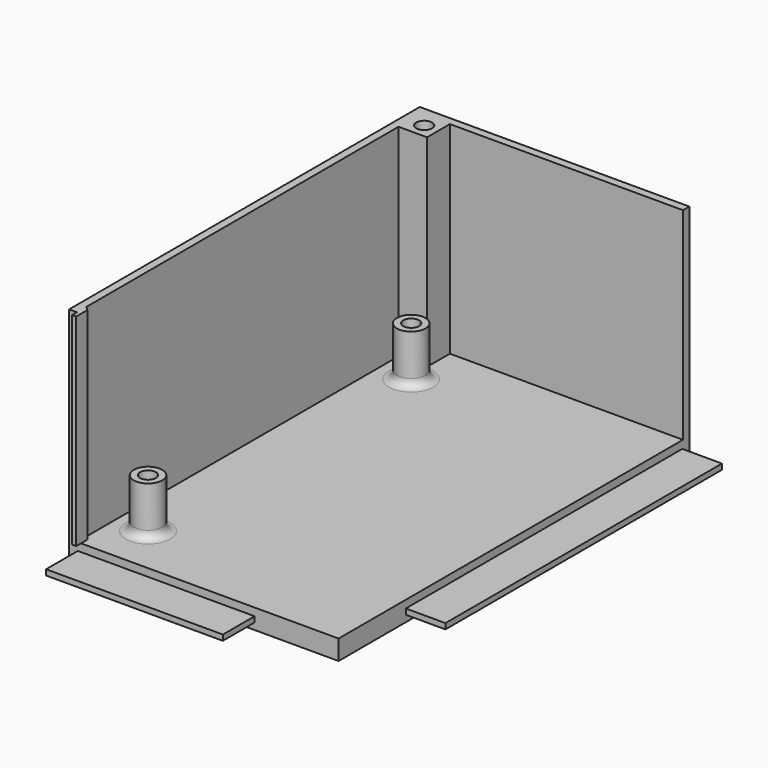
from build123d import *

# Parameters (mm, degrees)
SKETCH_1_W      = 63
SKETCH_1_H      = 93
PAD_DEPTH       = 5
SKETCH_W        = 63
SKETCH_H        = 7.4
PAD001_DEPTH    = 5
PAD002_DEPTH    = 5
PAD003_DEPTH    = 51
SKETCH005_W     = 87.2
SKETCH005_H     = 1.4
PAD005_DEPTH    = 10
SKETCH006_R     = 3.6
PAD006_DEPTH    = 12.4
SKETCH007_R     = 2
POCKET001_DEPTH = 6.7
SKETCH008_W     = 44.6
SKETCH008_H     = 1.4
PAD007_DEPTH    = 10
PAD008_DEPTH    = 51
SKETCH010_W     = 7.2
SKETCH010_H     = 7.2
PAD009_DEPTH    = 51
SKETCH011_R     = 2
POCKET_DEPTH    = 6.7
FILLET_R        = 2


with BuildPart() as part:
    # Sketch_1 → Pad (new body)
    with BuildSketch(Plane.XY):
        with Locations((-31.5, 46.5)):
            Rectangle(SKETCH_1_W, SKETCH_1_H)
    extrude(amount=PAD_DEPTH)

    # Sketch → Pad001 (join)
    with BuildSketch(Plane.XY):
        with Locations((-31.5, -3.7)):
            Rectangle(SKETCH_W, SKETCH_H)
    extrude(amount=PAD001_DEPTH)

    # Sketch001 → Pad002 (join)
    with BuildSketch(Plane.XY):
        Polygon((-68, 103.2), (-68, -7.4), (-63, -7.4), (-63, 93), (0, 93), (0, 103.2), align=None)
    extrude(amount=PAD002_DEPTH)

    # Sketch002 (on Face13 of Pad002) → Pad003 (join)
    with BuildSketch(Plane.XY.offset(5)):
        Polygon((-68, 103.2), (-68, -7.4), (-66, -7.4), (-66, 101.2), (0, 101.2), (0, 103.2), align=None)
    extrude(amount=PAD003_DEPTH)

    # Sketch005 → Pad005 (join)
    with BuildSketch(Plane.YZ):
        with Locations((57.4, 2.36)):
            Rectangle(SKETCH005_W, SKETCH005_H)
    extrude(amount=PAD005_DEPTH)

    # Sketch006 (on Face11 of Pad005) → Pad006 (join)
    with BuildSketch(Plane.XY.offset(5)):
        with Locations((-58, 5)):
            Circle(SKETCH006_R)
        with Locations((-58, 88)):
            Circle(SKETCH006_R)
    extrude(amount=PAD006_DEPTH)

    # Sketch007 (on Face28 of Pad006) → Pocket001 (cut)
    with BuildSketch(Plane.XY.offset(17.4)):
        with Locations((-58, 5)):
            Circle(SKETCH007_R)
        with Locations((-58, 88)):
            Circle(SKETCH007_R)
    extrude(amount=-POCKET001_DEPTH, mode=Mode.SUBTRACT)

    # Sketch008 (on Face5 of Pocket001) → Pad007 (join)
    with BuildSketch(Plane.XZ.offset(7.4)):
        with Locations((-43.5, 2.36)):
            Rectangle(SKETCH008_W, SKETCH008_H)
    extrude(amount=PAD007_DEPTH)

    # Sketch009 (on Face21 of Pad007) → Pad008 (join)
    with BuildSketch(Plane.XY.offset(5)):
        Polygon((-65, -5.4), (-65, -8.9), (-66, -8.9), (-66, -5.4), (-66, -4.4), align=None)
    extrude(amount=PAD008_DEPTH)

    # Sketch010 (on Face22 of Pad008) → Pad009 (join)
    with BuildSketch(Plane.XY.offset(5)):
        with Locations((-62.4, 97.6)):
            Rectangle(SKETCH010_W, SKETCH010_H)
    extrude(amount=PAD009_DEPTH)

    # Sketch011 (on Face43 of Pad009) → Pocket (cut)
    with BuildSketch(Plane.XY.offset(56)):
        with Locations((-62.4, 97.6)):
            Circle(SKETCH011_R)
    extrude(amount=-POCKET_DEPTH, mode=Mode.SUBTRACT)

    # Fillet
    fillet_edges = [part.edges().sort_by_distance(p)[0] for p in [
        (-61.6, 5, 5),
        (-61.6, 88, 5),
    ]]
    fillet(fillet_edges, radius=FILLET_R)


solid = part.part
